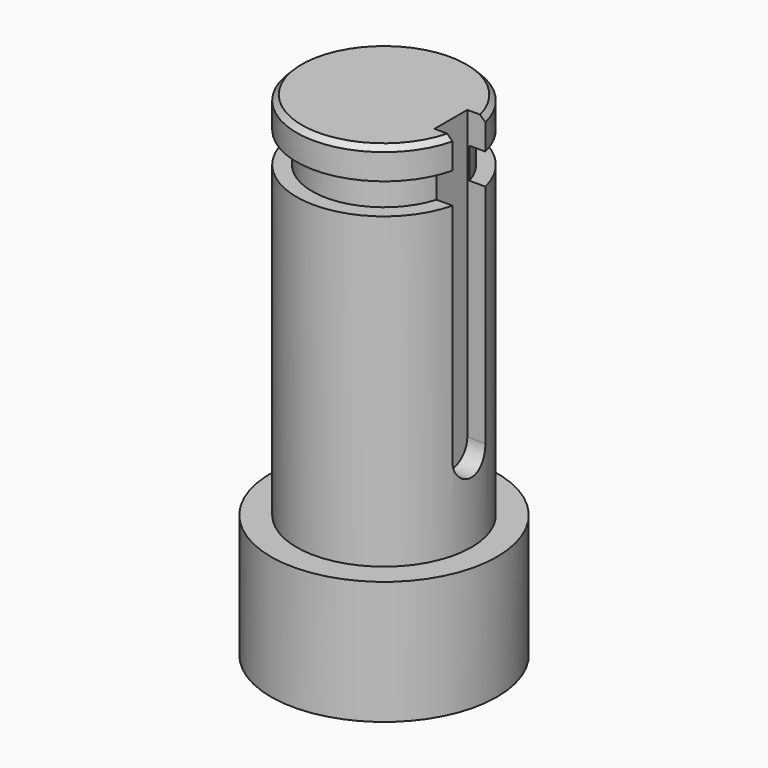
from build123d import *

# Parameters (mm, degrees)
F0_R      = 26.9875
F1_DEPTH  = 133.35
F2_R      = 22.225
F3_DEPTH  = 9.525
F4_R      = 26.9875
F5_DEPTH  = 9.525
F6_SIZE   = 1.5875
F9_DEPTH  = 9.525
F10_R     = 34.925
F11_DEPTH = 25.4
F12_DEPTH = 12.7


with BuildPart() as f1:
    # F0 (on Top) → F1 (new body)
    with BuildSketch(Plane.XY):
        Circle(F0_R)
    extrude(amount=F1_DEPTH)

    # F2 (on face) → F3 (join)
    with BuildSketch(Plane.XY.offset(133.35)):
        Circle(F2_R)
    extrude(amount=F3_DEPTH)

    # F4 (on face) → F5 (join)
    with BuildSketch(Plane.XY.offset(142.875)):
        Circle(F4_R)
    extrude(amount=F5_DEPTH)

    # F6
    f6_edges = [f1.edges().sort_by_distance(p)[0] for p in [
        (-26.9875, 0, 152.4),
    ]]
    chamfer(f6_edges, length=F6_SIZE)

    # F8 (on offset) → F9 (cut)
    with BuildSketch(Plane.YZ.offset(30.1625)):
        with BuildLine():
            Line((6.35, 63.4389315911), (6.35, 152.5463323689))
            Line((6.35, 152.5463323689), (-6.35, 152.5463323689))
            Line((-6.35, 152.5463323689), (-6.35, 63.4389315911))
            ThreePointArc((-6.35, 63.4389315911), (0, 57.0889315911), (6.35, 63.4389315911))
        make_face()
    extrude(amount=-F9_DEPTH, mode=Mode.SUBTRACT)

    # F10 (on face) → F11 (join)
    with BuildSketch(Plane(origin=(0, 0, 0), x_dir=(1, 0, 0), z_dir=(0, 0, -1))):
        Circle(F10_R)
    extrude(amount=-F11_DEPTH)

    # F12 (add): a face of the model
    f12_faces = [f1.faces().sort_by_distance(p)[0] for p in [
        (-33.9371718267, 0, 25.4),
    ]]
    extrude(f12_faces, amount=F12_DEPTH)


solid = f1.part
